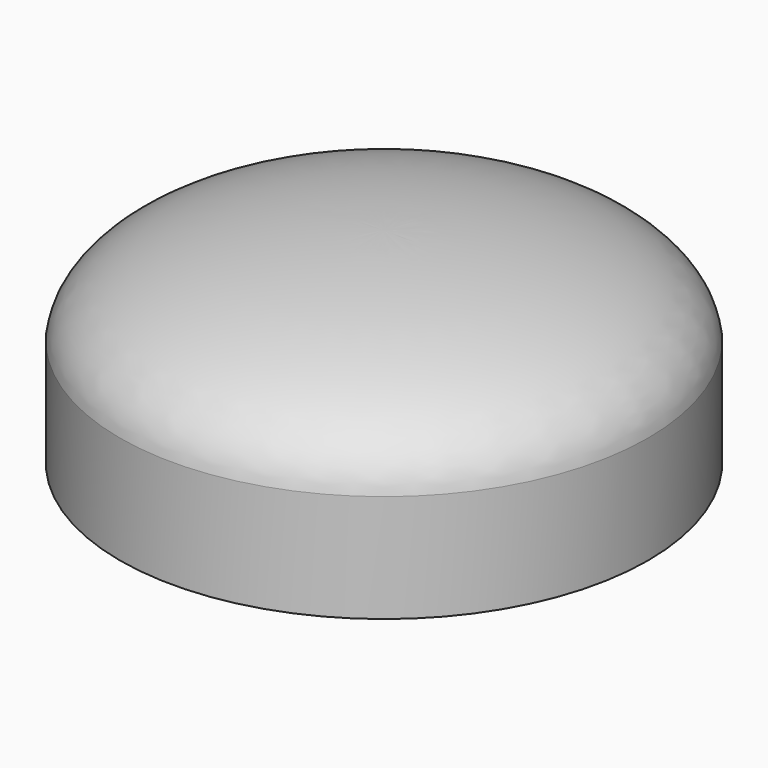
from build123d import *


with BuildPart() as f1:
    # F0 (on Front) → F1 (revolve)
    with BuildSketch(Plane.XZ):
        with BuildLine():
            Line((0, -2.969847), (0, 1.856153))
            add(Edge.make_bspline(
                [(-6.223, -0.429847), (-5.982127, 1.167413), (-2.795863, 1.862662), (0, 1.856153)],
                knots=[0, 0, 0, 0, 6.629595, 6.629595, 6.629595, 6.629595], degree=3))
            Line((-6.223, -0.429847), (-6.223, -2.969847))
            Line((-6.223, -2.969847), (0, -2.969847))
        make_face()
    revolve(axis=Axis((0, 0, -0.556847), (0, 0, -1)))


solid = f1.part
